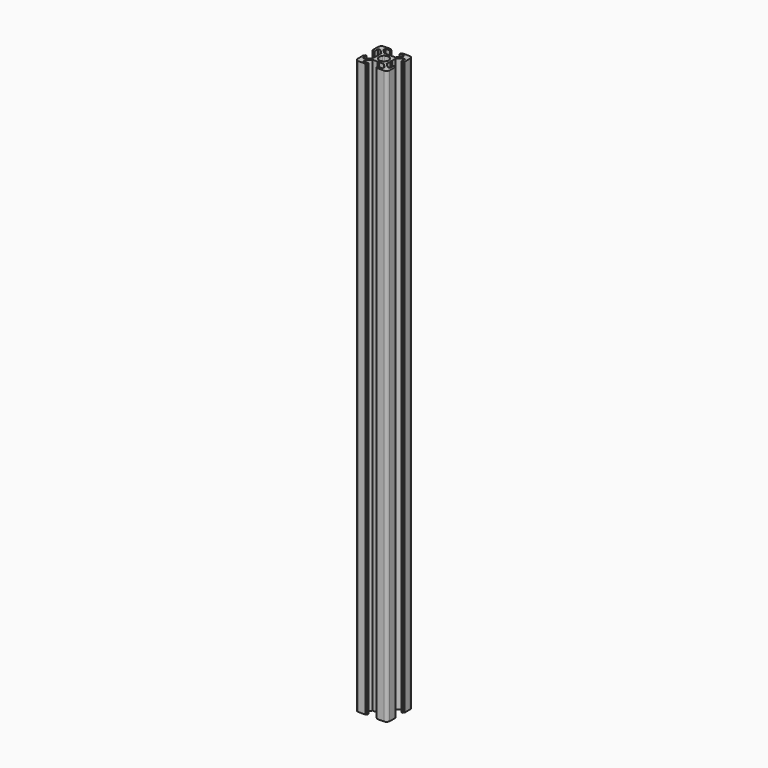
from build123d import *

# Parameters (mm, degrees)
F1_DEPTH = 360


with BuildPart() as f1:
    # F0 (on Top) → F1 (new body)
    with BuildSketch(Plane.XY):
        with BuildLine():
            ThreePointArc((-10, -7.991953), (-9.414214, -9.406167), (-8, -9.991953))
            Line((-8, -9.991953), (-3.5, -9.991953))
            Line((-3.5, -9.991953), (-3.5, -9.491953))
            Line((-3.5, -9.491953), (-3, -9.491953))
            Line((-3, -9.491953), (-3, -8.491953))
            Line((-3, -8.491953), (-6, -8.491953))
            Line((-6, -8.491953), (-6, -6.991953))
            Line((-6, -6.991953), (-3.5, -4.491953))
            Line((-3.5, -4.491953), (-0.5, -4.491953))
            Line((-0.5, -4.491953), (0, -3.991953))
            Line((0, -3.991953), (0.5, -4.491953))
            Line((0.5, -4.491953), (3.5, -4.491953))
            Line((3.5, -4.491953), (6, -6.991953))
            Line((6, -6.991953), (6, -8.491953))
            Line((6, -8.491953), (3, -8.491953))
            Line((3, -8.491953), (3, -9.491953))
            Line((3, -9.491953), (3.5, -9.491953))
            Line((3.5, -9.491953), (3.5, -9.991953))
            Line((3.5, -9.991953), (8, -9.991953))
            ThreePointArc((8, -9.991953), (9.414214, -9.406167), (10, -7.991953))
            Line((10, -7.991953), (10, -3.491953))
            Line((10, -3.491953), (9.5, -3.491953))
            Line((9.5, -3.491953), (9.5, -2.991953))
            Line((9.5, -2.991953), (8.5, -2.991953))
            Line((8.5, -2.991953), (8.5, -5.991953))
            Line((8.5, -5.991953), (7, -5.991953))
            Line((7, -5.991953), (4.5, -3.491953))
            Line((4.5, -3.491953), (4.5, -0.491953))
            Line((4.5, -0.491953), (4, 0.008047))
            Line((4, 0.008047), (4.5, 0.508047))
            Line((4.5, 0.508047), (4.5, 3.508047))
            Line((4.5, 3.508047), (7, 6.008047))
            Line((7, 6.008047), (8.5, 6.008047))
            Line((8.5, 6.008047), (8.5, 3.008047))
            Line((8.5, 3.008047), (9.5, 3.008047))
            Line((9.5, 3.008047), (9.5, 3.508047))
            Line((9.5, 3.508047), (10, 3.508047))
            Line((10, 3.508047), (10, 8.008047))
            ThreePointArc((10, 8.008047), (9.414214, 9.422261), (8, 10.008047))
            Line((8, 10.008047), (3.5, 10.008047))
            Line((3.5, 10.008047), (3.5, 9.508047))
            Line((3.5, 9.508047), (3, 9.508047))
            Line((3, 9.508047), (3, 8.508047))
            Line((3, 8.508047), (6, 8.508047))
            Line((6, 8.508047), (6, 7.008047))
            Line((6, 7.008047), (3.5, 4.508047))
            Line((3.5, 4.508047), (0.5, 4.508047))
            Line((0.5, 4.508047), (0, 4.008047))
            Line((0, 4.008047), (-0.5, 4.508047))
            Line((-0.5, 4.508047), (-3.5, 4.508047))
            Line((-3.5, 4.508047), (-6, 7.008047))
            Line((-6, 7.008047), (-6, 8.508047))
            Line((-6, 8.508047), (-3, 8.508047))
            Line((-3, 8.508047), (-3, 9.508047))
            Line((-3, 9.508047), (-3.5, 9.508047))
            Line((-3.5, 9.508047), (-3.5, 10.008047))
            Line((-3.5, 10.008047), (-8, 10.008047))
            ThreePointArc((-8, 10.008047), (-9.414214, 9.422261), (-10, 8.008047))
            Line((-10, 8.008047), (-10, 3.508047))
            Line((-10, 3.508047), (-9.5, 3.508047))
            Line((-9.5, 3.508047), (-9.5, 3.008047))
            Line((-9.5, 3.008047), (-8.5, 3.008047))
            Line((-8.5, 3.008047), (-8.5, 6.008047))
            Line((-8.5, 6.008047), (-7, 6.008047))
            Line((-7, 6.008047), (-4.5, 3.508047))
            Line((-4.5, 3.508047), (-4.5, 0.508047))
            Line((-4.5, 0.508047), (-4, 0.008047))
            Line((-4, 0.008047), (-4.5, -0.491953))
            Line((-4.5, -0.491953), (-4.5, -3.491953))
            Line((-4.5, -3.491953), (-7, -5.991953))
            Line((-7, -5.991953), (-8.5, -5.991953))
            Line((-8.5, -5.991953), (-8.5, -2.991953))
            Line((-8.5, -2.991953), (-9.5, -2.991953))
            Line((-9.5, -2.991953), (-9.5, -3.491953))
            Line((-9.5, -3.491953), (-10, -3.491953))
            Line((-10, -3.491953), (-10, -7.991953))
        make_face()
        with BuildLine():
            ThreePointArc((2.445203, 1.746144), (2.857937, 0.920294), (3, 0.008047))
            ThreePointArc((3, 0.008047), (2.857937, -0.9042), (2.445203, -1.73005))
            ThreePointArc((2.445203, -1.73005), (2.12132, -2.113273), (1.738097, -2.437156))
            ThreePointArc((1.738097, -2.437156), (0, -2.991953), (-1.738097, -2.437156))
            ThreePointArc((-1.738097, -2.437156), (-2.12132, -2.113273), (-2.445203, -1.73005))
            ThreePointArc((-2.445203, -1.73005), (-3, 0.008047), (-2.445203, 1.746144))
            ThreePointArc((-2.445203, 1.746144), (-2.12132, 2.129367), (-1.738097, 2.45325))
            ThreePointArc((-1.738097, 2.45325), (0, 3.008047), (1.738097, 2.45325))
            ThreePointArc((1.738097, 2.45325), (2.12132, 2.129367), (2.445203, 1.746144))
        make_face(mode=Mode.SUBTRACT)
    extrude(amount=F1_DEPTH)


solid = f1.part
